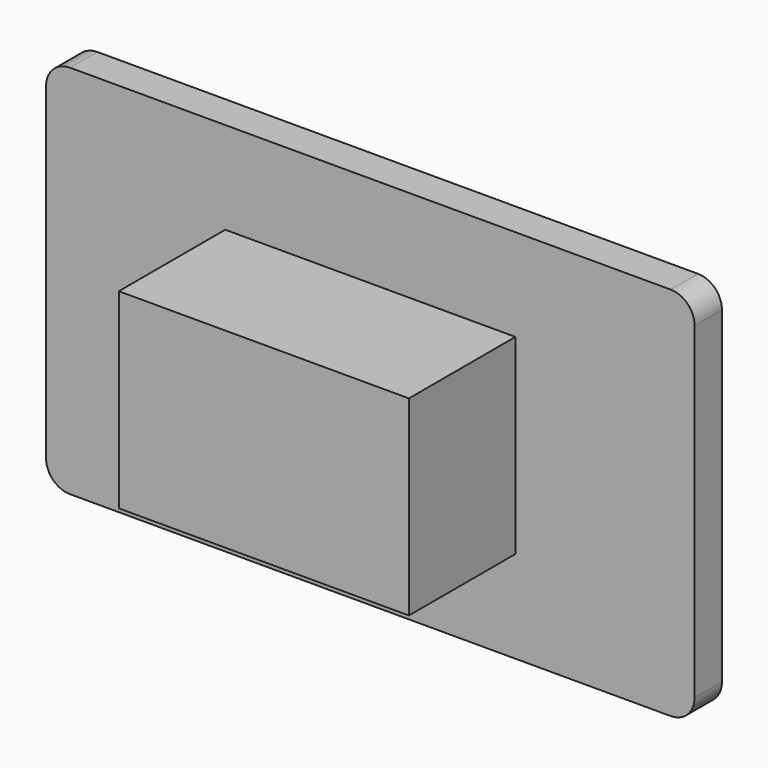
from build123d import *

# Parameters (mm, degrees)
F1_DEPTH = 10
F2_W     = 85
F2_H     = 56
F3_DEPTH = 39


with BuildPart() as f1:
    # F0 (on Front) → F1 (new body)
    with BuildSketch(Plane.XZ):
        with BuildLine():
            ThreePointArc((95, 47.9896), (92.946701, 52.946701), (87.9896, 55))
            Line((87.9896, 55), (-87.9896, 55))
            ThreePointArc((-87.9896, 55), (-92.946701, 52.946701), (-95, 47.9896))
            Line((-95, 47.9896), (-95, -47.9896))
            ThreePointArc((-95, -47.9896), (-92.946701, -52.946701), (-87.9896, -55))
            Line((-87.9896, -55), (87.9896, -55))
            ThreePointArc((87.9896, -55), (92.946701, -52.946701), (95, -47.9896))
            Line((95, -47.9896), (95, 47.9896))
        make_face()
    extrude(amount=F1_DEPTH)


with BuildPart() as f3:
    # F2 (on face) → F3 (new body)
    with BuildSketch(Plane.XZ.offset(10)):
        Rectangle(F2_W, F2_H)
    extrude(amount=F3_DEPTH)


solid = Compound([f1.part, f3.part])
